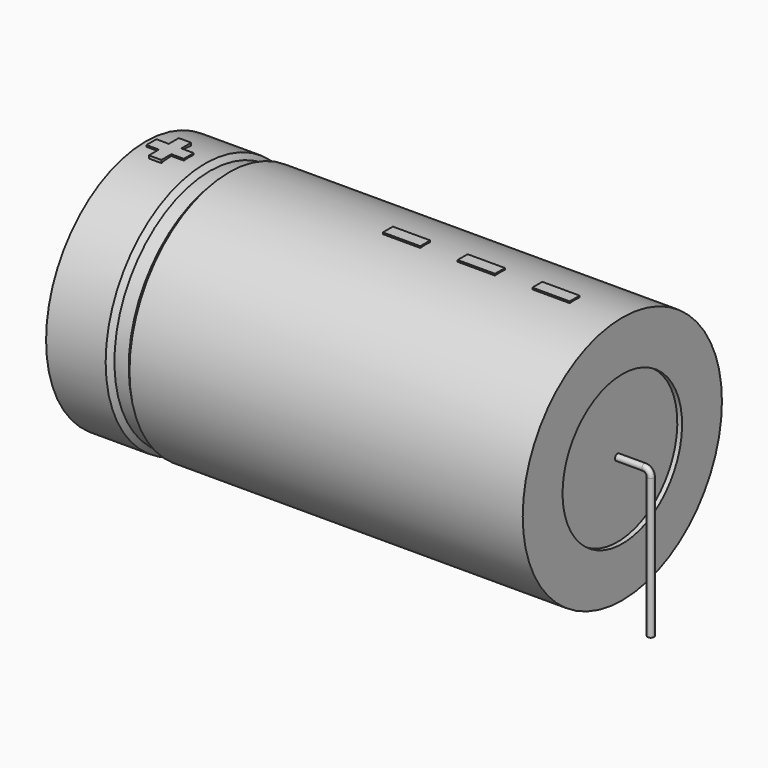
from build123d import *

# Parameters (mm, degrees)
SKETCH_R    = 0.45
SKETCH004_W = 5.25
SKETCH004_H = 1.75
PAD_DEPTH   = 17.675


with BuildPart() as sweep_body:
    # Sweep: sweep along a path in Sketch001
    with BuildLine(Plane.XZ) as sweep_path:
        Line((0, -3), (0, 16.7))
        ThreePointArc((0, 16.7), (0.263601, 17.336393), (0.899993, 17.6))
        Line((0.899993, 17.6), (74.1, 17.6))
        ThreePointArc((74.1, 17.6), (74.736396, 17.336396), (75, 16.7))
        Line((75, 16.7), (75, -3))
    # Sketch → Sweep (sweep)
    with BuildSketch(Plane.XY.offset(-2)):
        Circle(SKETCH_R)
    sweep(path=sweep_path.line)


with BuildPart() as revolution:
    # Sketch002 → Revolution (revolve)
    with BuildSketch(Plane.XZ):
        Polygon((4, 35.1), (4, 28.1), (71, 28.1), (71, 35.1), (15.725, 35.1), (15.055, 34.4), (13.045, 34.4), (12.375, 35.1), align=None)
    revolve(axis=Axis((6.97588, 0, 17.6), (1, 0, 0)))


with BuildPart() as revolution001:
    # Sketch003 → Revolution001 (revolve)
    with BuildSketch(Plane.XZ):
        Polygon((4.67, 34.4), (8.02, 34.4), (8.02, 19.35), (66.98, 19.35), (66.98, 34.4), (70.33, 34.4), (70.33, 17.6), (4.67, 17.6), align=None)
    revolve(axis=Axis((6.97588, 0, 17.6), (1, 0, 0)))


with BuildPart() as pad:
    # Sketch004 → Pad (new body)
    with BuildSketch(Plane.XY.offset(17.6)):
        with Locations((61.675, 0)):
            Rectangle(SKETCH004_W, SKETCH004_H)
        with Locations((51.175, 0)):
            Rectangle(SKETCH004_W, SKETCH004_H)
        with Locations((40.675, 0)):
            Rectangle(SKETCH004_W, SKETCH004_H)
        Polygon((6.554, 0.875), (4.804, 0.875), (4.804, -0.875), (6.554, -0.875), (6.554, -2.625), (8.304, -2.625), (8.304, -0.875), (10.054, -0.875), (10.054, 0.875), (8.304, 0.875), (8.304, 2.625), (6.554, 2.625), align=None)
    extrude(amount=PAD_DEPTH)


solid = Compound([sweep_body.part, revolution.part, revolution001.part, pad.part])
